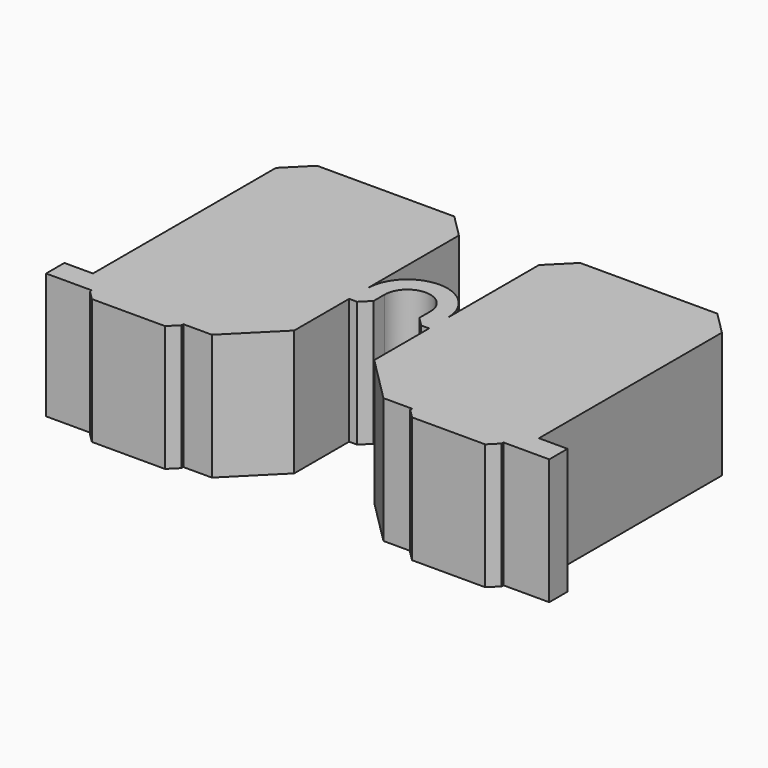
from build123d import *

# Parameters (mm, degrees)
BOX011_W        = 4
BOX011_H        = 1
BOX011_DEPTH    = 5.5
BOX010_W        = 1.75
BOX010_H        = 1
BOX010_DEPTH    = 5.5
BOX008_W        = 3.5
BOX008_H        = 2
BOX008_DEPTH    = 5.5
TUBE_R          = 1.75
TUBE_R_2        = 1
TUBE_DEPTH      = 5.5
BOX009_W        = 1.75
BOX009_H        = 1
BOX009_DEPTH    = 5.5
BOX007_W        = 9.25
BOX007_H        = 1
BOX007_DEPTH    = 5.5
BOX006_W        = 8
BOX006_H        = 11
BOX006_DEPTH    = 5.5
BOX005_W        = 9.25
BOX005_H        = 1
BOX005_DEPTH    = 5.5
BOX004_W        = 8
BOX004_H        = 11
BOX004_DEPTH    = 5.5
BOX012_W        = 4
BOX012_H        = 1
BOX012_DEPTH    = 5.5
CHAMFER012_SIZE = 0.4
CHAMFER013_SIZE = 2
CHAMFER015_SIZE = 1


with BuildPart() as cube011:
    # Box011 → Box011 (new body)
    with BuildSketch(Plane(origin=(60, 74.5, 1.25), x_dir=(1, 0, 0), z_dir=(0, 0, 1))):
        with Locations((2, 0.5)):
            Rectangle(BOX011_W, BOX011_H)
    extrude(amount=BOX011_DEPTH)


with BuildPart() as cube010:
    # Box010 → Box010 (new body)
    with BuildSketch(Plane(origin=(70, 80, 1.25), x_dir=(1, 0, 0), z_dir=(0, 0, 1))):
        with Locations((0.875, 0.5)):
            Rectangle(BOX010_W, BOX010_H)
    extrude(amount=BOX010_DEPTH)


with BuildPart() as cube008:
    # Box008 → Box008 (new body)
    with BuildSketch(Plane(origin=(67.25, 79, 1.25), x_dir=(1, 0, 0), z_dir=(0, 0, 1))):
        with Locations((1.75, 1)):
            Rectangle(BOX008_W, BOX008_H)
    extrude(amount=BOX008_DEPTH)


with BuildPart() as cut:
    # Tube → Tube (new body)
    with BuildSketch(Plane(origin=(69, 81, 1.25), x_dir=(1, 0, 0), z_dir=(0, 0, 1))):
        Circle(TUBE_R)
        Circle(TUBE_R_2, mode=Mode.SUBTRACT)
    extrude(amount=TUBE_DEPTH)

    # Cut: cut Cube008
    add(cube008.part, mode=Mode.SUBTRACT)


with BuildPart() as cube009:
    # Box009 → Box009 (new body)
    with BuildSketch(Plane(origin=(66.25, 80, 1.25), x_dir=(1, 0, 0), z_dir=(0, 0, 1))):
        with Locations((0.875, 0.5)):
            Rectangle(BOX009_W, BOX009_H)
    extrude(amount=BOX009_DEPTH)


with BuildPart() as cube007:
    # Box007 → Box007 (new body)
    with BuildSketch(Plane(origin=(70.75, 75, 1.25), x_dir=(1, 0, 0), z_dir=(0, 0, 1))):
        with Locations((4.625, 0.5)):
            Rectangle(BOX007_W, BOX007_H)
    extrude(amount=BOX007_DEPTH)


with BuildPart() as cube006:
    # Box006 → Box006 (new body)
    with BuildSketch(Plane(origin=(59.25, 76, 1.25), x_dir=(1, 0, 0), z_dir=(0, 0, 1))):
        with Locations((4, 5.5)):
            Rectangle(BOX006_W, BOX006_H)
    extrude(amount=BOX006_DEPTH)


with BuildPart() as cube005:
    # Box005 → Box005 (new body)
    with BuildSketch(Plane(origin=(58, 75, 1.25), x_dir=(1, 0, 0), z_dir=(0, 0, 1))):
        with Locations((4.625, 0.5)):
            Rectangle(BOX005_W, BOX005_H)
    extrude(amount=BOX005_DEPTH)


with BuildPart() as cube004:
    # Box004 → Box004 (new body)
    with BuildSketch(Plane(origin=(70.75, 76, 1.25), x_dir=(1, 0, 0), z_dir=(0, 0, 1))):
        with Locations((4, 5.5)):
            Rectangle(BOX004_W, BOX004_H)
    extrude(amount=BOX004_DEPTH)


with BuildPart() as obj1:
    # Box012 → Box012 (new body)
    with BuildSketch(Plane(origin=(74, 74.5, 1.25), x_dir=(1, 0, 0), z_dir=(0, 0, 1))):
        with Locations((2, 0.5)):
            Rectangle(BOX012_W, BOX012_H)
    extrude(amount=BOX012_DEPTH)

    # Fusion004: union Cube011, Cube010, Cut, Cube009, Cube007, Cube006, Cube005, Cube004
    add(cube011.part)
    add(cube010.part)
    add(cut.part)
    add(cube009.part)
    add(cube007.part)
    add(cube006.part)
    add(cube005.part)
    add(cube004.part)

    # Chamfer012
    chamfer012_edges = [obj1.edges().sort_by_distance(p)[0] for p in [
        (64, 74.5, 4),
        (60, 74.5, 4),
        (74, 74.5, 4),
        (78, 74.5, 4),
        (70, 80, 4),
        (68, 80, 4),
    ]]
    chamfer(chamfer012_edges, length=CHAMFER012_SIZE)

    # Chamfer013
    chamfer013_edges = [obj1.edges().sort_by_distance(p)[0] for p in [
        (67.25, 75, 4),
        (70.75, 75, 4),
    ]]
    chamfer(chamfer013_edges, length=CHAMFER013_SIZE)

    # Chamfer015
    chamfer015_edges = [obj1.edges().sort_by_distance(p)[0] for p in [
        (59.25, 87, 4),
        (67.25, 87, 4),
        (70.75, 87, 4),
        (78.75, 87, 4),
    ]]
    chamfer(chamfer015_edges, length=CHAMFER015_SIZE)


with BuildPart() as obj1_1:
    # Chamfer015 placement: moved
    add(obj1.part.moved(Location((0, 2, 0))))


solid = obj1_1.part
